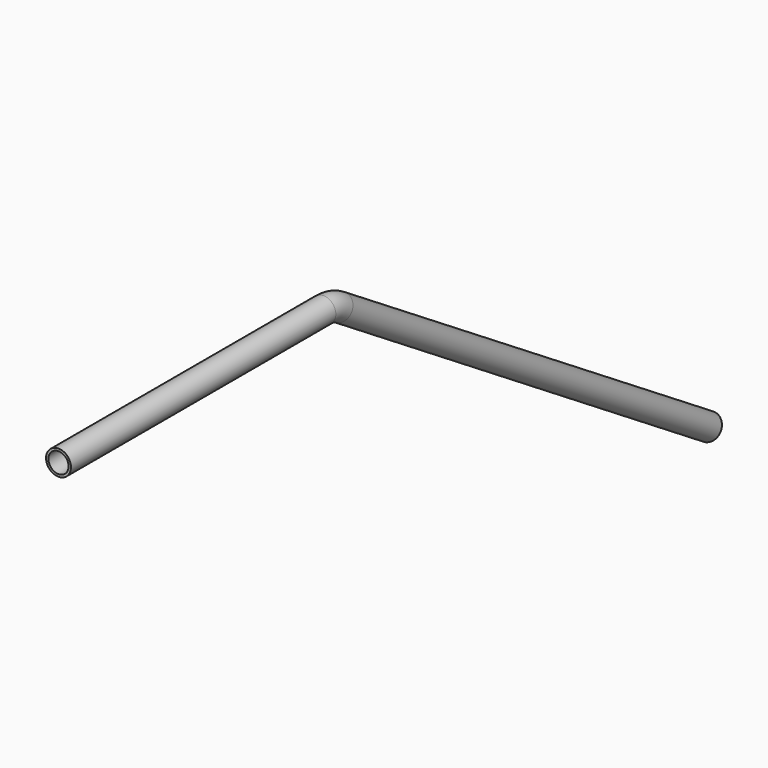
from build123d import *

# Parameters (mm, degrees)
F1_R   = 16.85
F1_R_2 = 13.65


with BuildPart() as f2:
    # F2: sweep along a path in F0
    with BuildLine(Plane.YZ) as f2_path:
        Line((0, 0), (448, 0))
        ThreePointArc((448, 0), (466.804001, -2.676206), (484.114726, -10.492298))
        Line((484.114726, -10.492298), (1108.073063, -406.468299))
    # F1 (on Front) → F2 (sweep)
    with BuildSketch(Plane.XZ):
        with Locations((0, -16.85)):
            Circle(F1_R)
        with Locations((0, -16.85)):
            Circle(F1_R_2, mode=Mode.SUBTRACT)
    sweep(path=f2_path.line)


solid = f2.part
